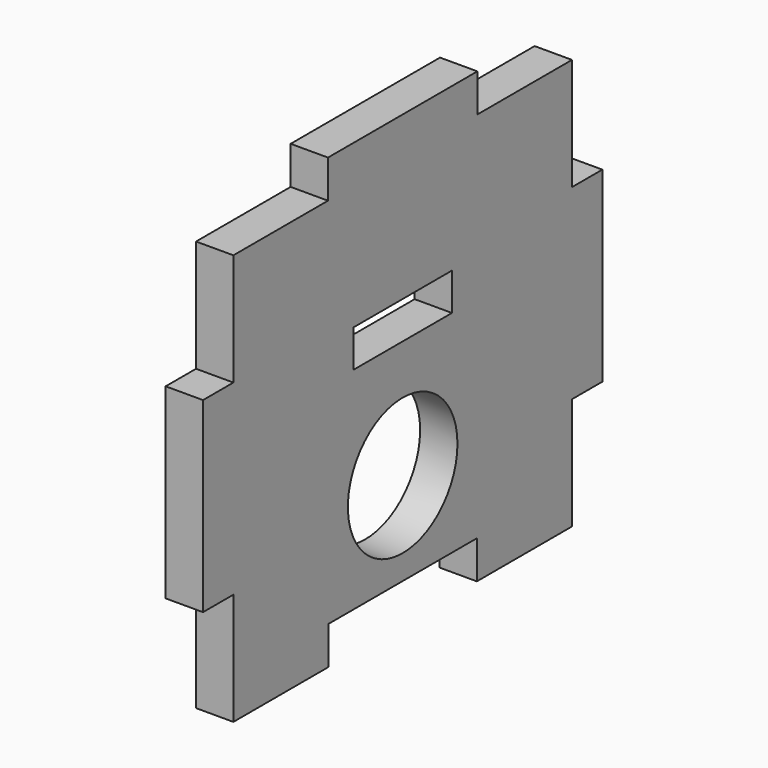
from build123d import *

# Parameters (mm, degrees)
F0_R     = 5.5
F0_W     = 9.9
F0_H     = 3
F0_W_2   = 15
F0_H_2   = 3.05
F0_W_3   = 3.05
F0_H_3   = 15
F1_DEPTH = 3


with BuildPart() as f1:
    # F0 (on Right) → F1 (new body)
    with BuildSketch(Plane.YZ):
        Polygon((17, 7.5), (17, 16.5), (7.5, 16.5), (-7.5, 16.5), (-17, 16.5), (-17, 7.5), (-17, -7.5), (-17, -16.5), (-7.45, -16.5), (-7.45, -13.45), (7.45, -13.45), (7.45, -16.5), (17, -16.5), (17, -7.5), align=None)
        with Locations((0, -5.975)):
            Circle(F0_R, mode=Mode.SUBTRACT)
        with Locations((0, 5)):
            Rectangle(F0_W, F0_H, mode=Mode.SUBTRACT)
        with Locations((0, 18.025)):
            Rectangle(F0_W_2, F0_H_2)
        with Locations((-18.525, 0)):
            Rectangle(F0_W_3, F0_H_3)
        with Locations((18.525, 0)):
            Rectangle(F0_W_3, F0_H_3)
    extrude(amount=F1_DEPTH)


solid = f1.part
